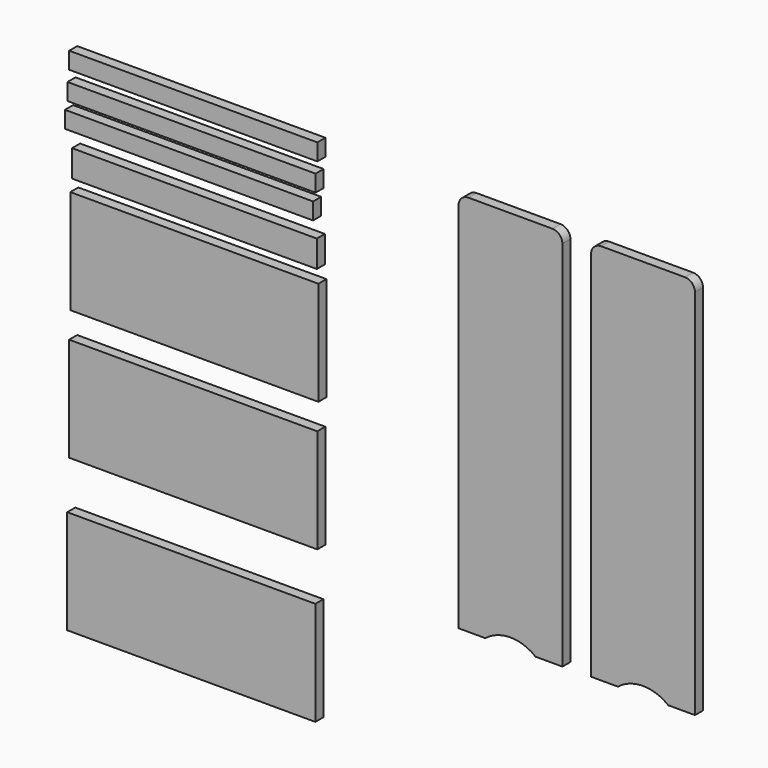
from build123d import *

# Parameters (mm, degrees)
F4_W     = 469.9
F4_H     = 31.75
F6_W     = 469.9
F6_H     = 31.75
F7_W     = 469.9
F7_H     = 31.75
F5_W     = 463.55
F5_H     = 50.8
F1_W     = 469.9
F1_H     = 196.85
F2_W     = 469.9
F2_H     = 196.85
F3_W     = 469.9
F3_H     = 196.85
F9_DEPTH = 9.525
F10_R    = 19.05


with BuildPart() as f9:
    # F8 (on Front) + F4 (on Front) + F6 (on Front) + F7 (on Front) + F5 (on Front) + F1 (on Front) + F2 (on Front) + F3 (on Front) + F0 (on Front) → F9 (new body, symmetric)
    with BuildSketch(Plane.XZ):
        with BuildLine():
            Line((556.525676, -361.182183), (556.525676, 362.717817))
            Line((556.525676, 362.717817), (359.675676, 362.717817))
            Line((359.675676, 362.717817), (359.675676, -361.182183))
            Line((359.675676, -361.182183), (410.475676, -361.182183))
            ThreePointArc((410.475676, -361.182183), (458.100676, -344.465789), (505.725676, -361.182183))
            Line((505.725676, -361.182183), (556.525676, -361.182183))
        make_face()
    with BuildSketch(Plane.XZ):
        with Locations((-393.524534, 345.201898)):
            Rectangle(F4_W, F4_H)
    with BuildSketch(Plane.XZ):
        with Locations((-396.838856, 292.041379)):
            Rectangle(F6_W, F6_H)
    with BuildSketch(Plane.XZ):
        with Locations((-401.601678, 244.144204)):
            Rectangle(F7_W, F7_H)
    with BuildSketch(Plane.XZ):
        with Locations((-391.3697, 175.021887)):
            Rectangle(F5_W, F5_H)
    with BuildSketch(Plane.XZ):
        with Locations((-391.544344, 27.663392)):
            Rectangle(F1_W, F1_H)
    with BuildSketch(Plane.XZ):
        with Locations((-393.70001, -219.074995)):
            Rectangle(F2_W, F2_H)
    with BuildSketch(Plane.XZ):
        with Locations((-397.333866, -507.832081)):
            Rectangle(F3_W, F3_H)
    with BuildSketch(Plane.XZ):
        with BuildLine():
            Line((305.435, -361.95001), (305.435, 361.94999))
            Line((305.435, 361.94999), (108.585, 361.94999))
            Line((108.585, 361.94999), (108.585, -361.95001))
            Line((108.585, -361.95001), (159.385, -361.95001))
            ThreePointArc((159.385, -361.95001), (207.01, -345.233616), (254.635, -361.95001))
            Line((254.635, -361.95001), (305.435, -361.95001))
        make_face()
    extrude(amount=F9_DEPTH, both=True)

    # F10
    f10_edges = [f9.edges().sort_by_distance(p)[0] for p in [
        (108.585, 0, 361.94999),
        (305.435, 0, 361.94999),
        (359.675676, 0, 362.717817),
        (556.525676, 0, 362.717817),
    ]]
    fillet(f10_edges, radius=F10_R)


solid = f9.part
